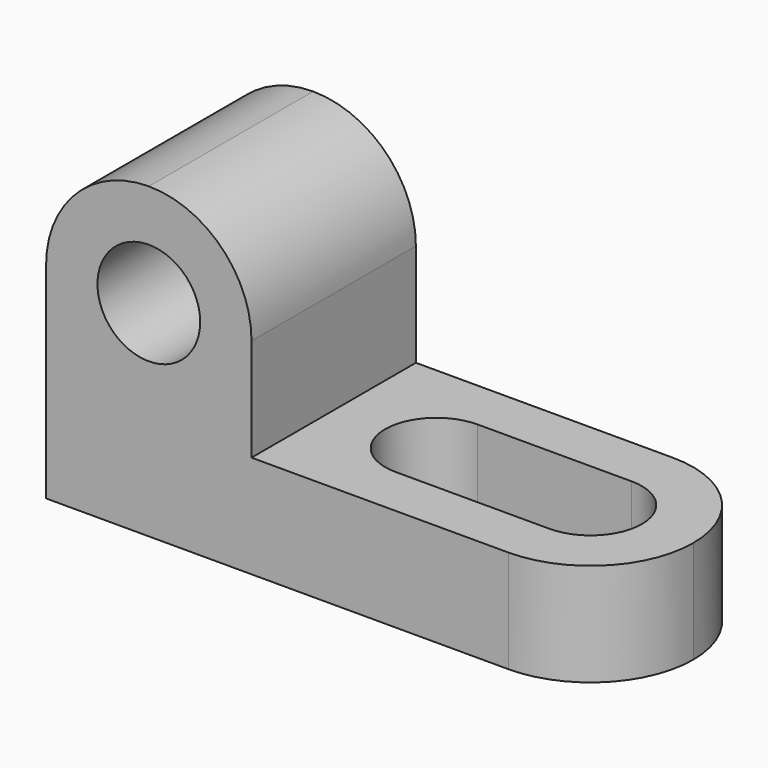
from build123d import *

# Parameters (mm, degrees)
F1_DEPTH = 25.4
F2_R     = 6.35
F3_DEPTH = 25.4
F5_DEPTH = 25.4


with BuildPart() as f1:
    # F0 (on Front) → F1 (new body)
    with BuildSketch(Plane.XZ):
        Polygon((-19.041446, 26.214435), (-44.441446, 26.214435), (-44.441446, -11.885565), (25.408554, -11.885565), (25.408554, 0.814435), (-19.041446, 0.814435), align=None)
    extrude(amount=F1_DEPTH)

    # F2 (on face) → F3 (cut)
    with BuildSketch(Plane.XZ.offset(25.4)):
        with Locations((-31.741446, 13.514435)):
            Circle(F2_R)
        with BuildLine():
            ThreePointArc((-44.441446, 13.514435), (-40.721702, 22.494691), (-31.741446, 26.214435))
            Line((-31.741446, 26.214435), (-44.441446, 26.214435))
            Line((-44.441446, 26.214435), (-44.441446, 13.514435))
        make_face()
        with BuildLine():
            ThreePointArc((-31.741446, 26.214435), (-22.76119, 22.494691), (-19.041446, 13.514435))
            Line((-19.041446, 13.514435), (-19.041446, 26.214435))
            Line((-19.041446, 26.214435), (-31.741446, 26.214435))
        make_face()
    extrude(amount=-F3_DEPTH, mode=Mode.SUBTRACT)

    # F4 (on face) → F5 (cut)
    with BuildSketch(Plane.XY.offset(0.814435)):
        with BuildLine():
            ThreePointArc((0.008554, -12.7), (-1.851318, -8.209872), (-6.341446, -6.35))
            ThreePointArc((-6.341446, -6.35), (-12.691446, -12.7), (-6.341446, -19.05))
            ThreePointArc((-6.341446, -19.05), (-1.851318, -17.190128), (0.008554, -12.7))
        make_face()
        with BuildLine():
            ThreePointArc((12.708554, -19.05), (6.358554, -12.7), (12.708554, -6.35))
            Line((12.708554, -6.35), (-6.341446, -6.35))
            ThreePointArc((-6.341446, -6.35), (-1.851318, -8.209872), (0.008554, -12.7))
            ThreePointArc((0.008554, -12.7), (-1.851318, -17.190128), (-6.341446, -19.05))
            Line((-6.341446, -19.05), (12.708554, -19.05))
        make_face()
        with BuildLine():
            ThreePointArc((12.708554, -19.05), (17.198682, -17.190128), (19.058554, -12.7))
            ThreePointArc((19.058554, -12.7), (17.198682, -8.209872), (12.708554, -6.35))
            Line((12.708554, -6.35), (12.708554, -19.05))
        make_face()
        with BuildLine():
            Line((12.708554, -19.05), (12.708554, -6.35))
            ThreePointArc((12.708554, -6.35), (6.358554, -12.7), (12.708554, -19.05))
        make_face()
        with BuildLine():
            Line((25.408554, -25.4), (25.408554, -12.7))
            ThreePointArc((25.408554, -12.7), (21.68881, -21.680256), (12.708554, -25.4))
            Line((12.708554, -25.4), (25.408554, -25.4))
        make_face()
        with BuildLine():
            Line((25.408554, 0), (12.708554, 0))
            ThreePointArc((12.708554, 0), (21.68881, -3.719744), (25.408554, -12.7))
            Line((25.408554, -12.7), (25.408554, 0))
        make_face()
    extrude(amount=-F5_DEPTH, mode=Mode.SUBTRACT)


solid = f1.part
